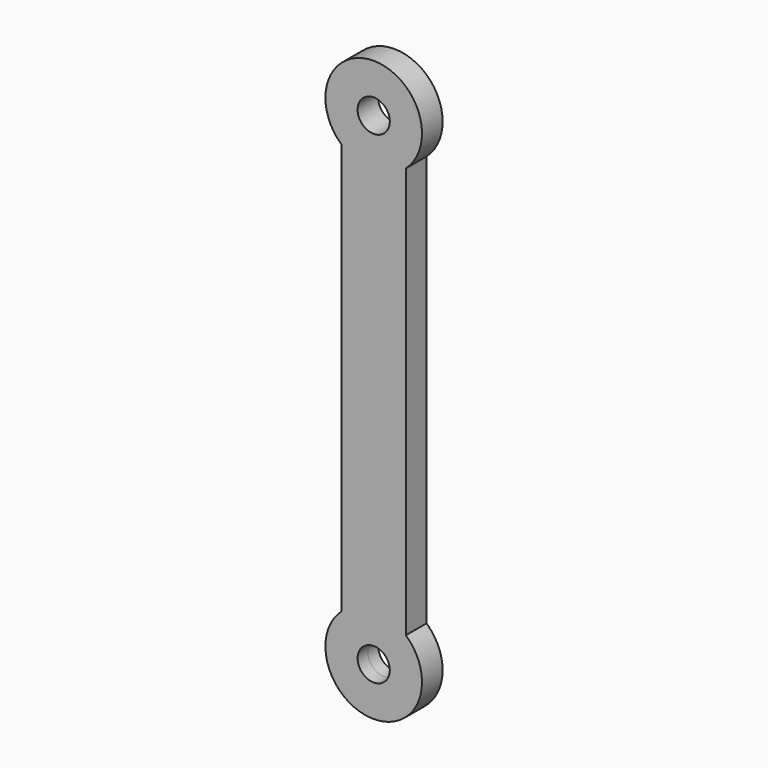
from build123d import *

# Parameters (mm, degrees)
F1_DEPTH = 4


with BuildPart() as f1:
    # F0 (on Front) → F1 (new body, symmetric)
    with BuildSketch(Plane.XZ):
        with BuildLine():
            ThreePointArc((10, -11.1803398875), (13.6930639376, -6.123724357), (15, 0))
            ThreePointArc((15, 0), (6.123724357, 13.6930639376), (-10, 11.1803398875))
            Line((-10, 11.1803398875), (-10, -11.1803398875))
            ThreePointArc((-10, -11.1803398875), (-5.3523313466, -14.0125853844), (0, -15))
            ThreePointArc((0, -15), (5.3523313466, -14.0125853844), (10, -11.1803398875))
        make_face()
        with BuildLine():
            ThreePointArc((5, 0), (3.5355339059, -3.5355339059), (0, -5))
            ThreePointArc((0, -5), (-3.5355339059, 3.5355339059), (5, 0))
        make_face(mode=Mode.SUBTRACT)
        with BuildLine():
            Line((-10, -11.1803398875), (-10, 11.1803398875))
            ThreePointArc((-10, 11.1803398875), (-15, 0), (-10, -11.1803398875))
        make_face()
        with BuildLine():
            Line((10, -138.8196601125), (10, -11.1803398875))
            ThreePointArc((10, -11.1803398875), (5.3523313466, -14.0125853844), (0, -15))
            Line((0, -15), (0, -135))
            ThreePointArc((0, -135), (5.3523313466, -135.9874146156), (10, -138.8196601125))
        make_face()
        with BuildLine():
            ThreePointArc((0, -15), (-5.3523313466, -14.0125853844), (-10, -11.1803398875))
            Line((-10, -11.1803398875), (-10, -138.8196601125))
            ThreePointArc((-10, -138.8196601125), (-5.3523313466, -135.9874146156), (0, -135))
            Line((0, -135), (0, -15))
        make_face()
        with BuildLine():
            ThreePointArc((15, -150), (13.6930639376, -143.876275643), (10, -138.8196601125))
            ThreePointArc((10, -138.8196601125), (5.3523313466, -135.9874146156), (0, -135))
            ThreePointArc((0, -135), (-5.3523313466, -135.9874146156), (-10, -138.8196601125))
            ThreePointArc((-10, -138.8196601125), (-6.123724357, -163.6930639376), (15, -150))
        make_face()
        with BuildLine():
            ThreePointArc((5, -150), (-3.5355339059, -153.5355339059), (0, -145))
            ThreePointArc((0, -145), (3.5355339059, -146.4644660941), (5, -150))
        make_face(mode=Mode.SUBTRACT)
    extrude(amount=F1_DEPTH, both=True)


solid = f1.part
